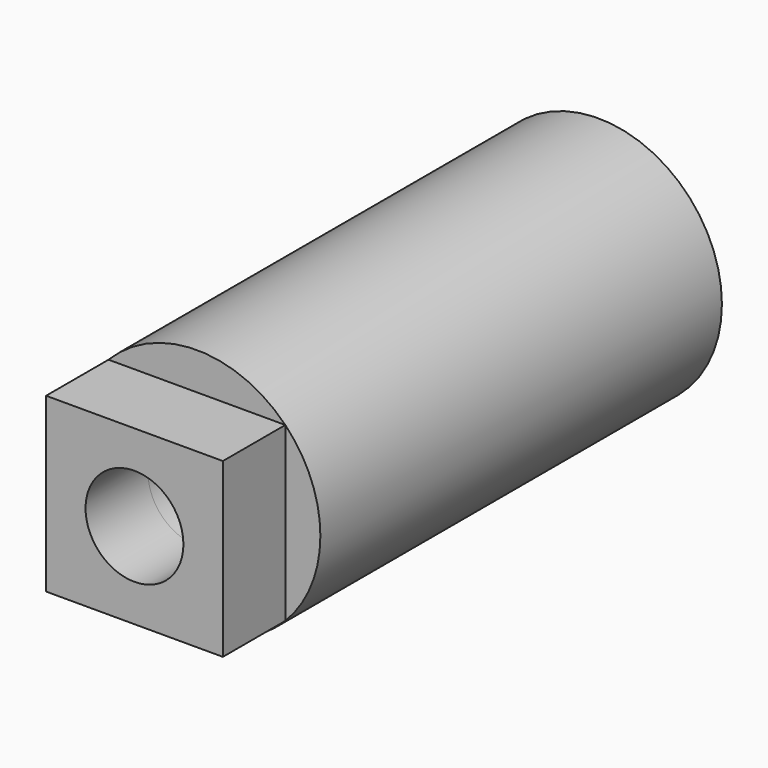
from build123d import *

# Parameters (mm, degrees)
F0_W      = 17.8937
F0_H      = 17.4498
F0_R      = 4.953
F1_DEPTH  = 7.8994
F2_R      = 12.4968
F3_DEPTH  = 50.8
F3_FACE_R = 4.953
F4_DEPTH  = 50.8


with BuildPart() as f1:
    # F0 (on Front) → F1 (new body)
    with BuildSketch(Plane.XZ):
        Rectangle(F0_W, F0_H)
        Circle(F0_R, mode=Mode.SUBTRACT)
    extrude(amount=F1_DEPTH)

    # F2 (on Front) → F3 (join)
    with BuildSketch(Plane.XZ):
        Circle(F2_R)
    extrude(amount=-F3_DEPTH)

    # F3_face (on face) → F4 (cut)
    with BuildSketch(Plane.XZ):
        Circle(F3_FACE_R)
    extrude(amount=-F4_DEPTH, mode=Mode.SUBTRACT)


solid = f1.part
